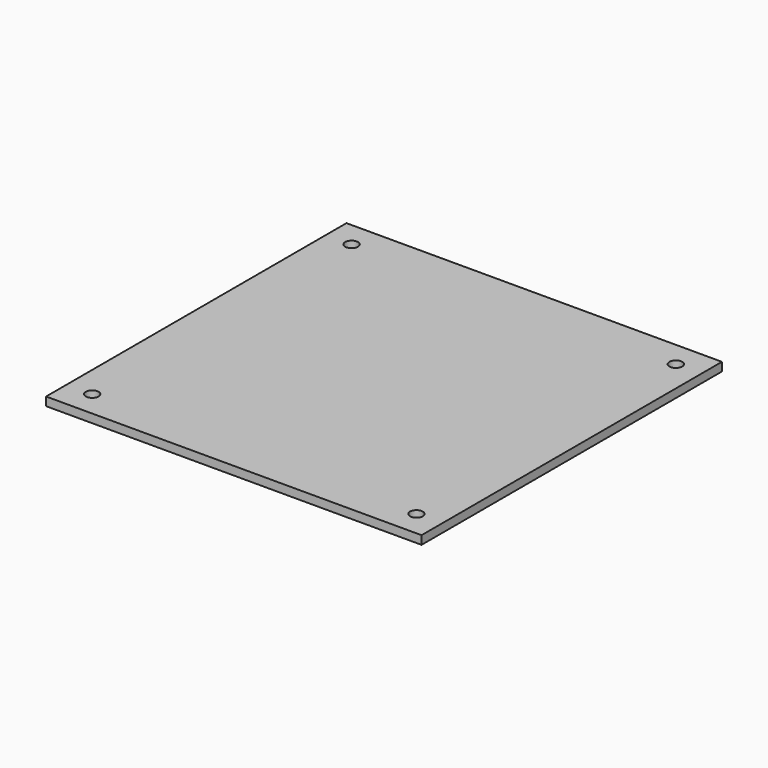
from build123d import *

# Parameters (mm, degrees)
F0_W     = 279.4
F0_H     = 279.4
F1_DEPTH = 6.35
F2_R     = 1.905
F3_DEPTH = 5.08
F4_R     = 4.7625
F5_DEPTH = 6.351


with BuildPart() as f1:
    # F0 (on Top) → F1 (new body)
    with BuildSketch(Plane.XY):
        with Locations((139.7, 139.7)):
            Rectangle(F0_W, F0_H)
    extrude(amount=F1_DEPTH)

    # F2 (on face) → F3 (cut)
    with BuildSketch(Plane(origin=(0, 0, 0), x_dir=(1, 0, 0), z_dir=(0, 0, -1))):
        with Locations((38.1, -38.1)):
            Circle(F2_R)
        with Locations((88.9, -38.1)):
            Circle(F2_R)
        with Locations((139.7, -38.1)):
            Circle(F2_R)
        with Locations((241.3, -38.1)):
            Circle(F2_R)
        with Locations((190.5, -38.1)):
            Circle(F2_R)
        with Locations((38.1, -88.9)):
            Circle(F2_R)
        with Locations((88.9, -88.9)):
            Circle(F2_R)
        with Locations((139.7, -88.9)):
            Circle(F2_R)
        with Locations((190.5, -88.9)):
            Circle(F2_R)
        with Locations((241.3, -88.9)):
            Circle(F2_R)
        with Locations((38.1, -139.7)):
            Circle(F2_R)
        with Locations((88.9, -139.7)):
            Circle(F2_R)
        with Locations((139.7, -139.7)):
            Circle(F2_R)
        with Locations((190.5, -139.7)):
            Circle(F2_R)
        with Locations((241.3, -139.7)):
            Circle(F2_R)
        with Locations((241.3, -190.5)):
            Circle(F2_R)
        with Locations((190.5, -190.5)):
            Circle(F2_R)
        with Locations((139.7, -190.5)):
            Circle(F2_R)
        with Locations((88.9, -190.5)):
            Circle(F2_R)
        with Locations((38.1, -190.5)):
            Circle(F2_R)
        with Locations((38.1, -241.3)):
            Circle(F2_R)
        with Locations((88.9, -241.3)):
            Circle(F2_R)
        with Locations((139.7, -241.3)):
            Circle(F2_R)
        with Locations((190.5, -241.3)):
            Circle(F2_R)
        with Locations((241.3, -241.3)):
            Circle(F2_R)
    extrude(amount=-F3_DEPTH, mode=Mode.SUBTRACT)

    # F4 (on face) → F5 (cut, through all)
    with BuildSketch(Plane(origin=(0, 0, 0), x_dir=(1, 0, 0), z_dir=(0, 0, -1))):
        with Locations((19.05, -19.05)):
            Circle(F4_R)
        with Locations((260.35, -260.35)):
            Circle(F4_R)
        with Locations((19.05, -260.35)):
            Circle(F4_R)
        with Locations((260.35, -19.05)):
            Circle(F4_R)
    extrude(amount=-F5_DEPTH, mode=Mode.SUBTRACT)


solid = f1.part
